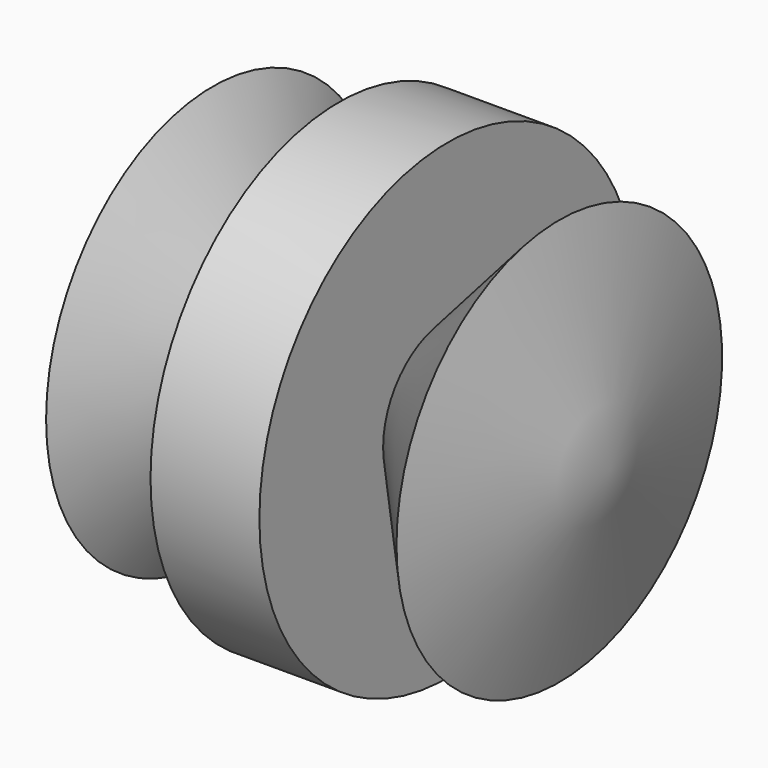
from build123d import *


with BuildPart() as f1:
    # F0 (on Top) → F1 (revolve)
    with BuildSketch(Plane.XY):
        Polygon((48.676394, 0), (-44.887215, 0), (-44.887215, -49.113605), (-28.273115, -19.09164), (0, -19.09164), (-15.156722, -55.526067), (10.493115, -55.526067), (10.493115, -19.09164), (36.725905, -47.947705), align=None)
    revolve(axis=Axis((1.603115, 0, 0), (1, 0, 0)))


solid = f1.part
